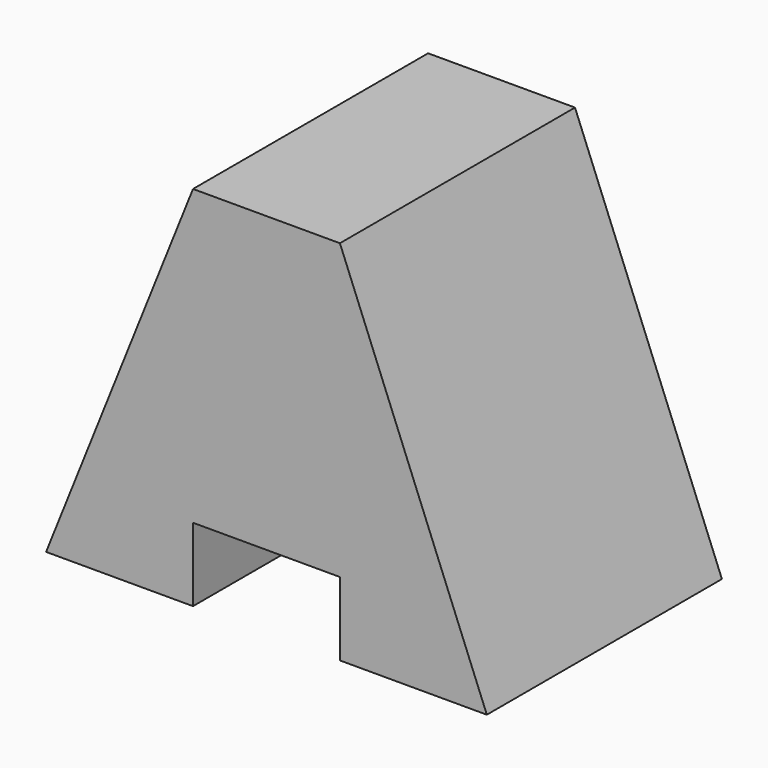
from build123d import *

# Parameters (mm, degrees)
F0_W     = 38.1
F0_H     = 31.75
F1_DEPTH = 25.4
F2_W     = 12.7
F2_H     = 6.35
F3_DEPTH = 25.4
F5_DEPTH = 25.4


with BuildPart() as f1:
    # F0 (on Front) → F1 (new body)
    with BuildSketch(Plane.XZ):
        with Locations((19.05, 15.875)):
            Rectangle(F0_W, F0_H)
    extrude(amount=F1_DEPTH)

    # F2 (on face) → F3 (cut)
    with BuildSketch(Plane.XZ.offset(25.4)):
        with Locations((19.05, 3.175)):
            Rectangle(F2_W, F2_H)
    extrude(amount=-F3_DEPTH, mode=Mode.SUBTRACT)

    # F4 (on face) → F5 (cut)
    with BuildSketch(Plane.XZ.offset(25.4)):
        Polygon((0, 0), (12.7, 31.75), (0, 31.75), align=None)
        Polygon((38.1, 31.75), (25.4, 31.75), (38.1, 0), align=None)
    extrude(amount=-F5_DEPTH, mode=Mode.SUBTRACT)


solid = f1.part
